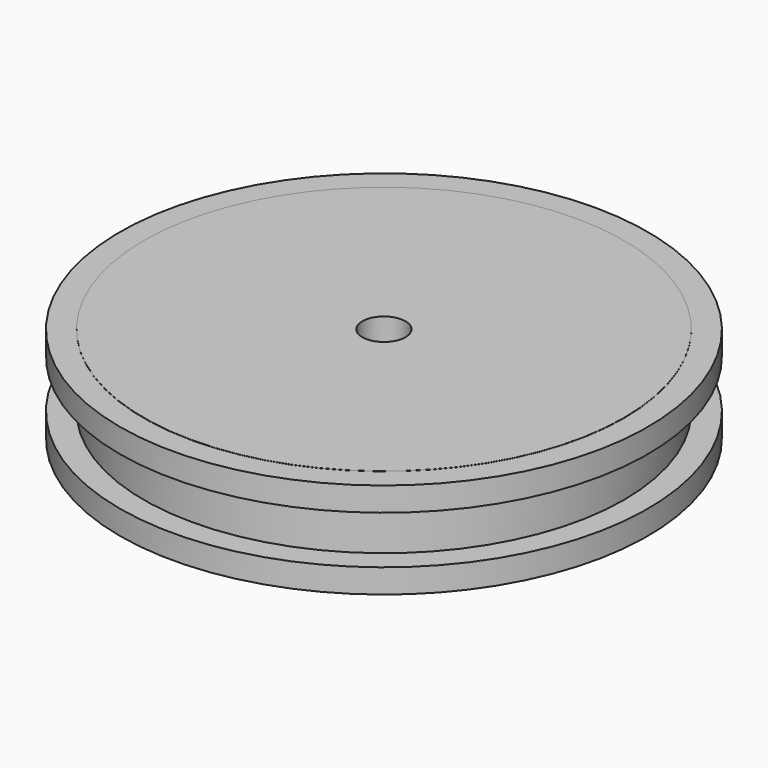
from build123d import *

# Parameters (mm, degrees)
F0_R     = 25
F0_R_2   = 2.25
F1_DEPTH = 5
F2_W     = 2.5
F2_H     = 2.5


with BuildPart() as f1:
    # F0 (on Top) → F1 (new body, symmetric)
    with BuildSketch(Plane.XY):
        Circle(F0_R)
        Circle(F0_R_2, mode=Mode.SUBTRACT)
    extrude(amount=F1_DEPTH, both=True)

    # F2 (on Right) → F3 (revolve)
    with BuildSketch(Plane.YZ):
        with Locations((26.234876, 3.731221)):
            Rectangle(F2_W, F2_H)
        with Locations((26.234876, -3.768779)):
            Rectangle(F2_W, F2_H)
    revolve(axis=Axis((0, 0, 5), (0, 0, 1)))


solid = f1.part
